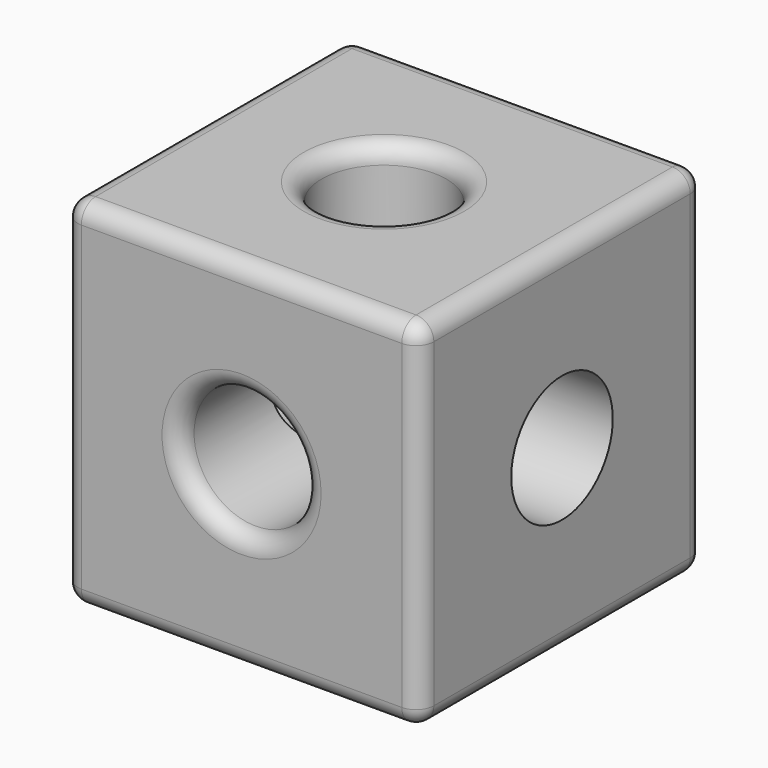
from build123d import *

# Parameters (mm, degrees)
F0_W     = 100
F0_H     = 100
F1_DEPTH = 50
F2_R     = 17.3381347349
F3_DEPTH = 100
F4_R     = 17.8249032517
F5_DEPTH = 100
F6_R     = 17.5256349956
F7_DEPTH = 100
F8_R     = 5


with BuildPart() as f1:
    # F0 (on Front) → F1 (new body, symmetric)
    with BuildSketch(Plane.XZ):
        with Locations((3.7253e-06, -0.4787400943)):
            Rectangle(F0_W, F0_H)
    extrude(amount=F1_DEPTH, both=True)

    # F2 (on face) → F3 (cut, through all)
    with BuildSketch(Plane.XZ.offset(50)):
        Circle(F2_R)
    extrude(amount=-F3_DEPTH, mode=Mode.SUBTRACT)

    # F4 (on face) → F5 (cut)
    with BuildSketch(Plane(origin=(-49.9999962747, 0, 0), x_dir=(0, -1, 0), z_dir=(-1, 0, 0))):
        Circle(F4_R)
    extrude(amount=-F5_DEPTH, mode=Mode.SUBTRACT)

    # F6 (on face) → F7 (cut)
    with BuildSketch(Plane.XY.offset(49.5212599057)):
        Circle(F6_R)
    extrude(amount=-F7_DEPTH, mode=Mode.SUBTRACT)

    # F8
    f8_edges = [f1.edges().sort_by_distance(p)[0] for p in [
        (-49.999996, 50, -0.47874),
        (-49.999996, 0, -50.47874),
        (-49.999996, -50, -0.47874),
        (-49.999996, 0, 49.52126),
        (4e-06, 50, -50.47874),
        (4e-06, 50, 49.52126),
        (50.000004, 50, -0.47874),
        (-17.338135, 50, 0),
        (4e-06, -50, -50.47874),
        (50.000004, 0, -50.47874),
        (-17.525635, 0, -50.47874),
        (4e-06, -50, 49.52126),
        (50.000004, -50, -0.47874),
        (-17.338135, -50, 0),
        (50.000004, 0, 49.52126),
        (-17.525635, 0, 49.52126),
        (-49.999996, 17.824903, 0),
    ]]
    fillet(f8_edges, radius=F8_R)


solid = f1.part
